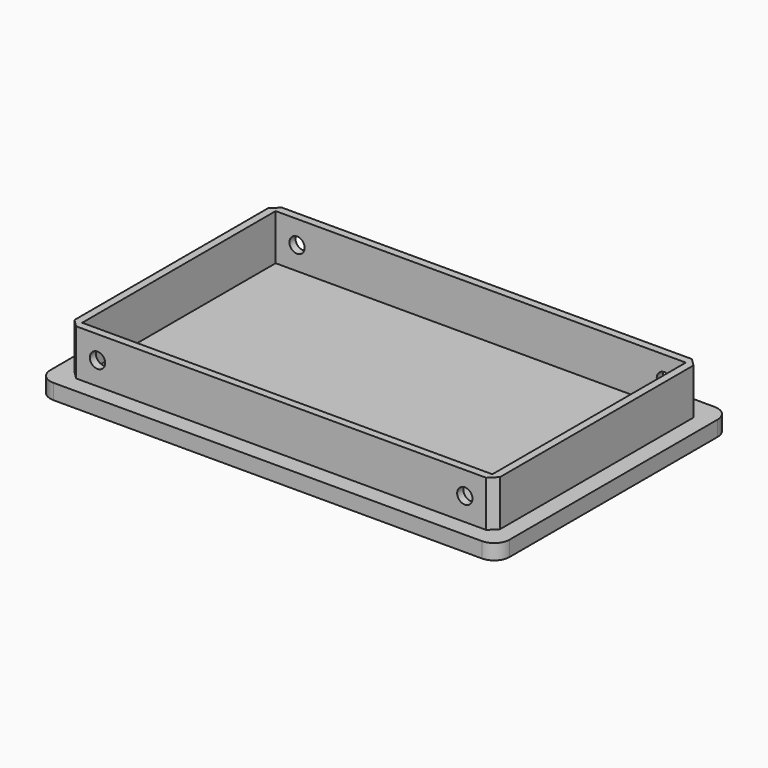
from build123d import *

# Parameters (mm, degrees)
F0_W      = 60
F0_H      = 38
F1_DEPTH  = 2
F2_W      = 55.6
F2_H      = 33.6
F2_W_2    = 53.6
F2_H_2    = 31.6
F3_DEPTH  = 6
F4_W      = 45
F4_H      = 35
F5_DEPTH  = 1
F6_R      = 2
F7_R      = 1
F8_DEPTH  = 8.001
F9_R      = 1
F10_DEPTH = 35.801
F11_SIZE  = 1


with BuildPart() as f1:
    # F0 (on Top) → F1 (new body)
    with BuildSketch(Plane.XY):
        with Locations((30, -19)):
            Rectangle(F0_W, F0_H)
    extrude(amount=F1_DEPTH)

    # F2 (on face) → F3 (join)
    with BuildSketch(Plane.XY.offset(2)):
        with Locations((30, -19)):
            Rectangle(F2_W, F2_H)
        with Locations((30, -19)):
            Rectangle(F2_W_2, F2_H_2, mode=Mode.SUBTRACT)
    extrude(amount=F3_DEPTH)

    # F4 (on face) → F5 (cut)
    with BuildSketch(Plane(origin=(0, 0, 0), x_dir=(1, 0, 0), z_dir=(0, 0, -1))):
        with Locations((24.5, 19)):
            Rectangle(F4_W, F4_H)
    extrude(amount=-F5_DEPTH, mode=Mode.SUBTRACT)

    # F6
    f6_edges = [f1.edges().sort_by_distance(p)[0] for p in [
        (0, -38, 1),
        (0, 0, 1),
        (60, -38, 1),
        (60, 0, 1),
    ]]
    fillet(f6_edges, radius=F6_R)

    # F7 (on face) → F8 (cut, through all)
    with BuildSketch(Plane(origin=(0, 0, 0), x_dir=(1, 0, 0), z_dir=(0, 0, -1))):
        with Locations((9.5, 32.5)):
            Circle(F7_R)
        with Locations((39.5, 32.5)):
            Circle(F7_R)
    extrude(amount=-F8_DEPTH, mode=Mode.SUBTRACT)

    # F9 (on face) → F10 (cut, through all)
    with BuildSketch(Plane(origin=(0, -2.2, 0), x_dir=(-1, 0, 0), z_dir=(0, 1, 0))):
        with Locations((-54, 5)):
            Circle(F9_R)
        with Locations((-6, 5)):
            Circle(F9_R)
    extrude(amount=-F10_DEPTH, mode=Mode.SUBTRACT)

    # F11
    f11_edges = [f1.edges().sort_by_distance(p)[0] for p in [
        (2.2, -2.2, 5),
        (2.2, -35.8, 5),
        (57.8, -35.8, 5),
        (57.8, -2.2, 5),
    ]]
    chamfer(f11_edges, length=F11_SIZE)


solid = f1.part
